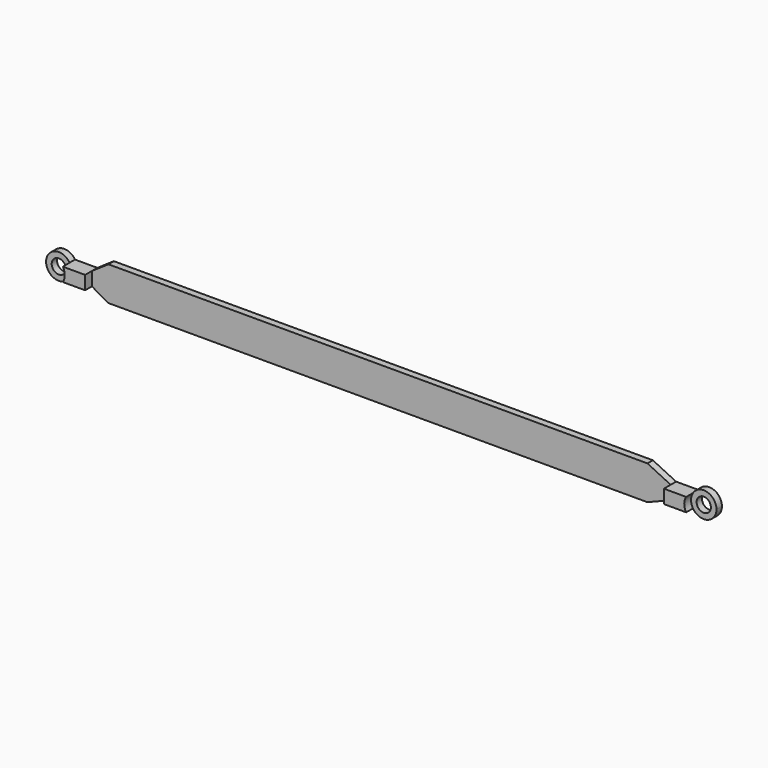
from build123d import *

# Parameters (mm, degrees)
F0_R     = 2.1
F1_DEPTH = 2
F2_DEPTH = 4.5
F3_DEPTH = 2


with BuildPart() as f1:
    # F0 (on Front) → F1 (new body)
    with BuildSketch(Plane.XZ):
        with BuildLine():
            ThreePointArc((-37.612203, -2), (-37.181707, -1.040903), (-37.034348, 0))
            ThreePointArc((-37.034348, 0), (-37.181707, 1.040903), (-37.612203, 2))
            ThreePointArc((-37.612203, 2), (-44.534348, 0), (-37.612203, -2))
        make_face()
        with Locations((-40.784348, 0)):
            Circle(F0_R, mode=Mode.SUBTRACT)
        with BuildLine():
            ThreePointArc((152.965652, 0), (150.256555, 3.602641), (146.043508, 2))
            ThreePointArc((146.043508, 2), (145.465652, 0), (146.043508, -2))
            ThreePointArc((146.043508, -2), (150.256555, -3.602641), (152.965652, 0))
        make_face()
        with Locations((149.215652, 0)):
            Circle(F0_R, mode=Mode.SUBTRACT)
    extrude(amount=F1_DEPTH)


with BuildPart() as f2:
    # F0 (on Front) → F2 (new body)
    with BuildSketch(Plane.XZ):
        with BuildLine():
            Line((146.043508, 2), (139.465652, 2))
            Line((139.465652, 2), (139.465652, -2))
            Line((139.465652, -2), (146.043508, -2))
            ThreePointArc((146.043508, -2), (145.465652, 0), (146.043508, 2))
        make_face()
        with BuildLine():
            ThreePointArc((-37.612203, 2), (-37.181707, 1.040903), (-37.034348, 0))
            ThreePointArc((-37.034348, 0), (-37.181707, -1.040903), (-37.612203, -2))
            Line((-37.612203, -2), (-31.034348, -2))
            Line((-31.034348, -2), (-31.034348, 2))
            Line((-31.034348, 2), (-37.612203, 2))
        make_face()
    extrude(amount=F2_DEPTH)


with BuildPart() as f3:
    # F0 (on Front) → F3 (new body)
    with BuildSketch(Plane.XZ):
        Polygon((-26.1539, 5.312169), (-31.034348, 2), (-31.034348, -2), (-26.1539, -4.749664), (132.63008, -4.749664), (139.465652, -2), (139.465652, 2), (132.63008, 5.312169), align=None)
    extrude(amount=F3_DEPTH)


solid = Compound([f1.part, f2.part, f3.part])
